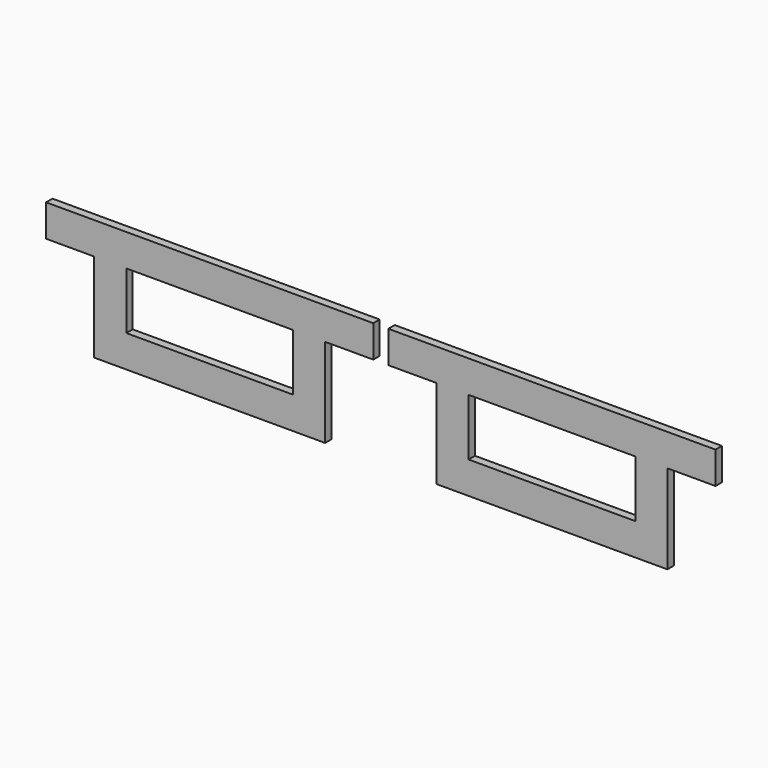
from build123d import *

# Parameters (mm, degrees)
F0_W     = 52
F0_H     = 17.75
F1_DEPTH = 2.5


with BuildPart() as f1:
    # F0 (on Front) → F1 (new body)
    with BuildSketch(Plane.XZ):
        Polygon((-36, -8.764741), (-36, -36.514741), (36, -36.514741), (36, -8.764741), (51, -8.764741), (51, 1.235259), (26, 1.235259), (-26, 1.235259), (-51, 1.235259), (-51, -8.764741), align=None)
        with Locations((0, -17.639741)):
            Rectangle(F0_W, F0_H, mode=Mode.SUBTRACT)
        Polygon((-157.7, -8.764741), (-142.7, -8.764741), (-142.7, -36.514741), (-70.7, -36.514741), (-70.7, -8.764741), (-55.7, -8.764741), (-55.7, 1.235259), (-157.7, 1.235259), align=None)
        with Locations((-106.7, -17.639741)):
            Rectangle(F0_W, F0_H, mode=Mode.SUBTRACT)
    extrude(amount=F1_DEPTH)


solid = f1.part
